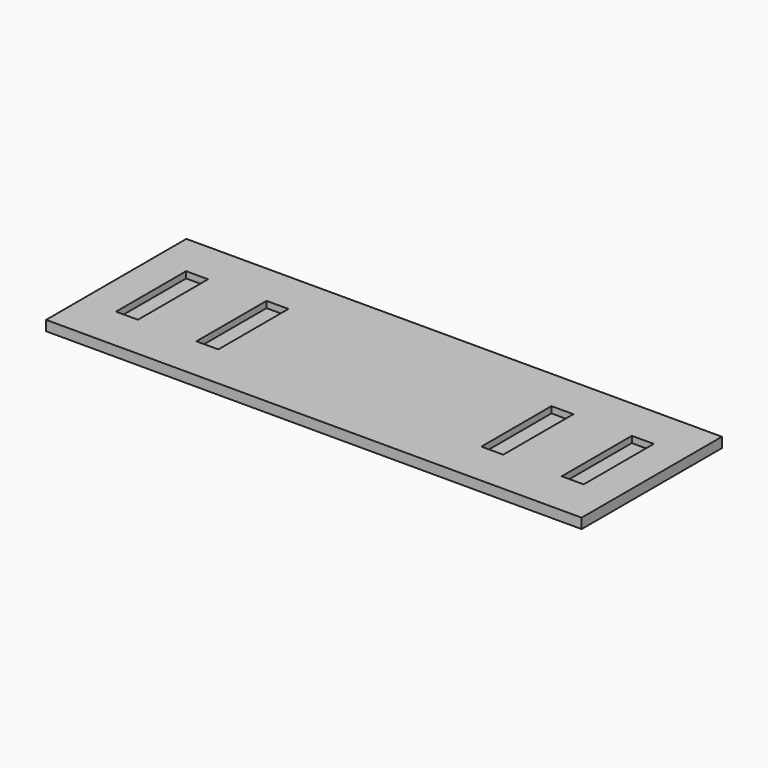
from build123d import *

# Parameters (mm, degrees)
F0_W     = 914.4
F0_H     = 304.8
F0_W_2   = 38.1
F0_H_2   = 152.4
F0_W_3   = 8.255
F1_DEPTH = 17.526
F2_DEPTH = 6.35


with BuildPart() as f1:
    # F0 (on Top) → F1 (new body)
    with BuildSketch(Plane.XY):
        with Locations((0, -1.919626)):
            Rectangle(F0_W, F0_H)
        with Locations((-387.35, 0)):
            Rectangle(F0_W_2, F0_H_2, mode=Mode.SUBTRACT)
        with Locations((-247.65, 0)):
            Rectangle(F0_W_2, F0_H_2, mode=Mode.SUBTRACT)
        with Locations((247.65, 0)):
            Rectangle(F0_W_2, F0_H_2, mode=Mode.SUBTRACT)
        with Locations((387.35, 0)):
            Rectangle(F0_W_2, F0_H_2, mode=Mode.SUBTRACT)
        with Locations((-461.3275, -1.919626)):
            Rectangle(F0_W_3, F0_H)
        with Locations((461.3275, -1.919626)):
            Rectangle(F0_W_3, F0_H)
    extrude(amount=F1_DEPTH)

    # F0 (on Top) → F2 (join)
    with BuildSketch(Plane.XY):
        with Locations((-387.35, 0)):
            Rectangle(F0_W_2, F0_H_2)
        with Locations((-247.65, 0)):
            Rectangle(F0_W_2, F0_H_2)
        with Locations((247.65, 0)):
            Rectangle(F0_W_2, F0_H_2)
        with Locations((387.35, 0)):
            Rectangle(F0_W_2, F0_H_2)
    extrude(amount=F2_DEPTH)


solid = f1.part
